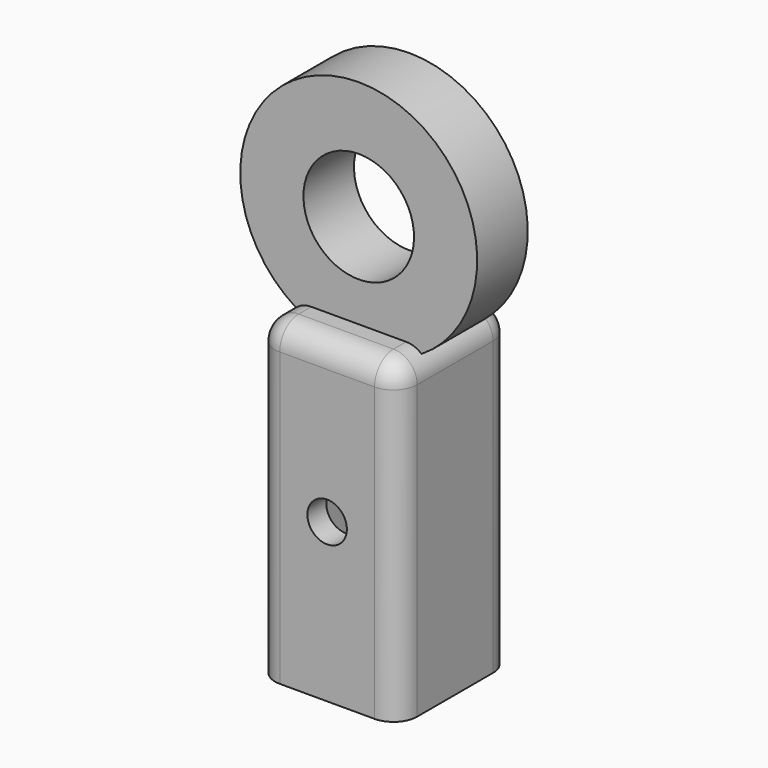
from build123d import *

# Parameters (mm, degrees)
F0_W          = 9
F0_H          = 9
F0_W_2        = 6
F0_H_2        = 6
F1_DEPTH      = 20
F2_START      = 18
F2_DEPTH      = 2
F3_R          = 1.5
F5_W          = 4
F5_H          = 4
F7_R          = 1.25
F8_DEPTH      = 25
F8_DEPTH_BACK = 25


with BuildPart() as f1:
    # F0 (on Top) → F1 (new body)
    with BuildSketch(Plane.XY):
        Rectangle(F0_W, F0_H)
        Rectangle(F0_W_2, F0_H_2, mode=Mode.SUBTRACT)
    extrude(amount=F1_DEPTH)

    # F0 (on Top) → F2 (join)
    with BuildSketch(Plane.XY.offset(F2_START)):
        Rectangle(F0_W_2, F0_H_2)
    extrude(amount=F2_DEPTH)

    # F3
    f3_edges = [f1.edges().sort_by_distance(p)[0] for p in [
        (4.5, 0, 20),
        (0, -4.5, 20),
        (-4.5, 0, 20),
        (0, 4.5, 20),
        (4.5, -4.5, 10),
        (4.5, 4.5, 10),
        (-4.5, -4.5, 10),
        (-4.5, 4.5, 10),
    ]]
    fillet(f3_edges, radius=F3_R)

    # F5 (on Right) → F6 (revolve)
    with BuildSketch(Plane.YZ):
        with Locations((0, 31.5)):
            Rectangle(F5_W, F5_H)
    revolve(axis=Axis((0, 0, 26), (0, -1, 0)))

    # F7 (on Front) → F8 (cut, two sides)
    with BuildSketch(Plane.XZ) as f8_sk:
        with Locations((0, 10)):
            Circle(F7_R)
    extrude(amount=F8_DEPTH, mode=Mode.SUBTRACT)
    extrude(f8_sk.sketch, amount=-F8_DEPTH_BACK, mode=Mode.SUBTRACT)


solid = f1.part
